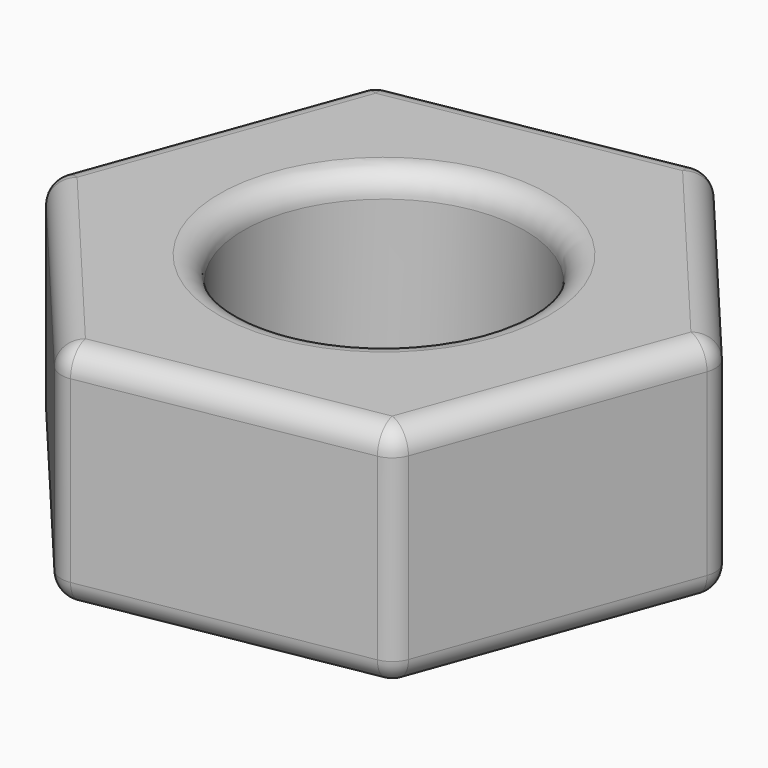
from build123d import *

# Parameters (mm, degrees)
F0_R     = 1.45
F1_DEPTH = 2.35
F2_R     = 0.25


with BuildPart() as f1:
    # F0 (on Top) → F1 (new body)
    with BuildSketch(Plane.XY):
        Polygon((-1.0612, -2.919244), (1.997539, -2.378649), (3.05874, 0.540596), (1.0612, 2.919244), (-1.997539, 2.378649), (-3.05874, -0.540596), align=None)
        Circle(F0_R, mode=Mode.SUBTRACT)
    extrude(amount=F1_DEPTH)

    # F2
    f2_edges = [f1.edges().sort_by_distance(p)[0] for p in [
        (0.46817, -2.648946, 2.35),
        (2.52814, -0.919027, 2.35),
        (2.05997, 1.72992, 2.35),
        (-0.46817, 2.648946, 2.35),
        (-2.52814, 0.919027, 2.35),
        (-2.05997, -1.72992, 2.35),
        (-1.45, 0, 2.35),
        (0.46817, -2.648946, 0),
        (2.52814, -0.919027, 0),
        (2.05997, 1.72992, 0),
        (-0.46817, 2.648946, 0),
        (-2.52814, 0.919027, 0),
        (-2.05997, -1.72992, 0),
        (-1.45, 0, 0),
        (-1.997539, 2.378649, 1.175),
        (-3.05874, -0.540596, 1.175),
        (-1.0612, -2.919244, 1.175),
        (1.0612, 2.919244, 1.175),
        (3.05874, 0.540596, 1.175),
        (1.997539, -2.378649, 1.175),
    ]]
    fillet(f2_edges, radius=F2_R)


solid = f1.part
